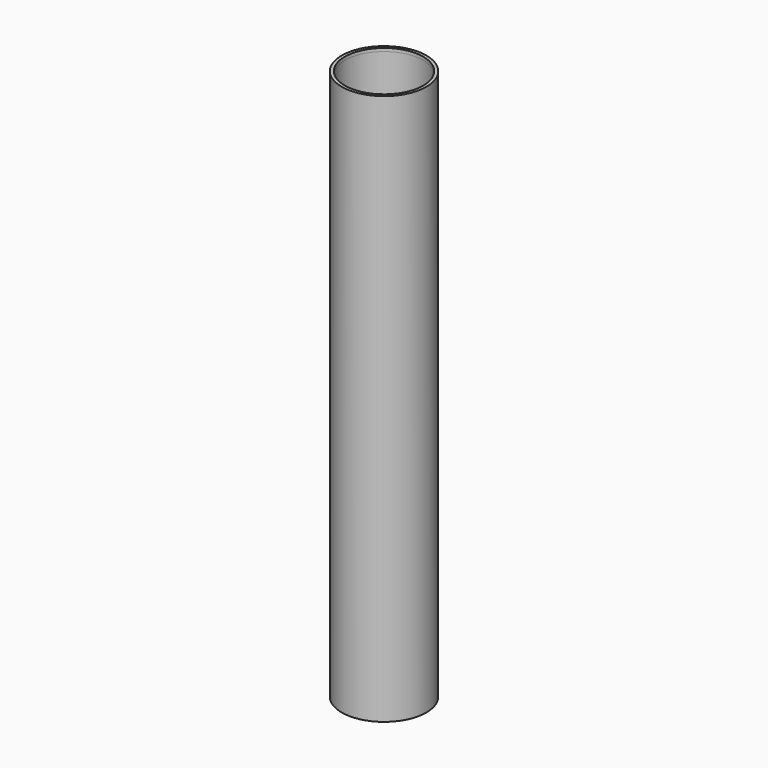
from build123d import *

# Parameters (mm, degrees)
F0_R     = 50.8
F1_DEPTH = 660.4
F2_T     = -3.81
F3_R     = 46.99
F4_DEPTH = 660.401


with BuildPart() as f1:
    # F0 (on Top) → F1 (new body)
    with BuildSketch(Plane.XY):
        Circle(F0_R)
    extrude(amount=F1_DEPTH)

    # F2
    f2_openings = [f1.faces().sort_by_distance(p)[0] for p in [
        (0, 0, 0),
    ]]
    offset(amount=F2_T, openings=f2_openings)

    # F3 (on face) → F4 (cut, through all)
    with BuildSketch(Plane(origin=(0, 0, 0), x_dir=(1, 0, 0), z_dir=(0, 0, -1))):
        Circle(F3_R)
    extrude(amount=-F4_DEPTH, mode=Mode.SUBTRACT)


solid = f1.part
